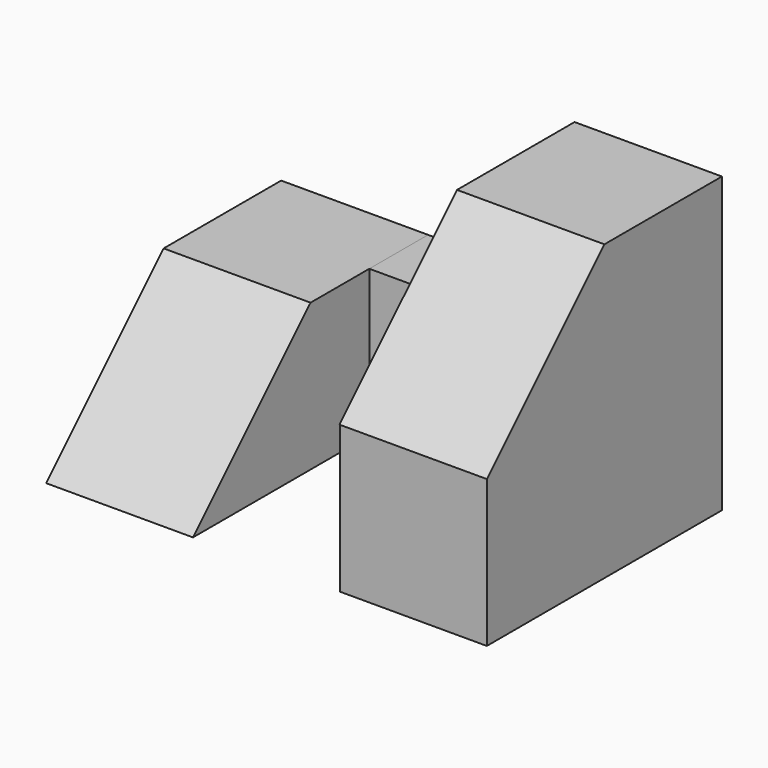
from build123d import *

# Parameters (mm, degrees)
F0_W     = 38.1
F0_H     = 25.4
F1_DEPTH = 12.7
F3_DEPTH = 19.05
F2_W     = 12.660892
F2_H     = 12.70006
F4_DEPTH = 25.401
F6_DEPTH = 25.4
F8_DEPTH = 38.101


with BuildPart() as f1:
    # F0 (on Front) → F1 (new body, symmetric)
    with BuildSketch(Plane.XZ):
        with Locations((19.05, 12.7)):
            Rectangle(F0_W, F0_H)
    extrude(amount=F1_DEPTH, both=True)

    # F2 (on face) → F3 (cut)
    with BuildSketch(Plane.XZ.offset(12.7)):
        Polygon((25.360892, 12.69994), (12.7, 12.69994), (12.7, 0), (25.4, 0), align=None)
    extrude(amount=-F3_DEPTH, mode=Mode.SUBTRACT)

    # F2 (on face) → F4 (cut, through all)
    with BuildSketch(Plane.XZ.offset(12.7)):
        with Locations((19.030446, 19.04997)):
            Rectangle(F2_W, F2_H)
        Polygon((12.7, 25.4), (0, 25.4), (0, 12.7), (12.7, 12.69994), align=None)
    extrude(amount=-F4_DEPTH, mode=Mode.SUBTRACT)

    # F5 (on face) → F6 (cut)
    with BuildSketch(Plane(origin=(0, 0, 0), x_dir=(0, -1, 0), z_dir=(-1, 0, 0))):
        Polygon((12.7, 12.7), (0, 12.7), (12.7, 0), align=None)
    extrude(amount=-F6_DEPTH, mode=Mode.SUBTRACT)

    # F7 (on face) → F8 (cut, through all)
    with BuildSketch(Plane.YZ.offset(38.1)):
        Polygon((-12.7, 12.7), (0, 25.4), (-12.7, 25.4), align=None)
    extrude(amount=-F8_DEPTH, mode=Mode.SUBTRACT)


solid = f1.part
